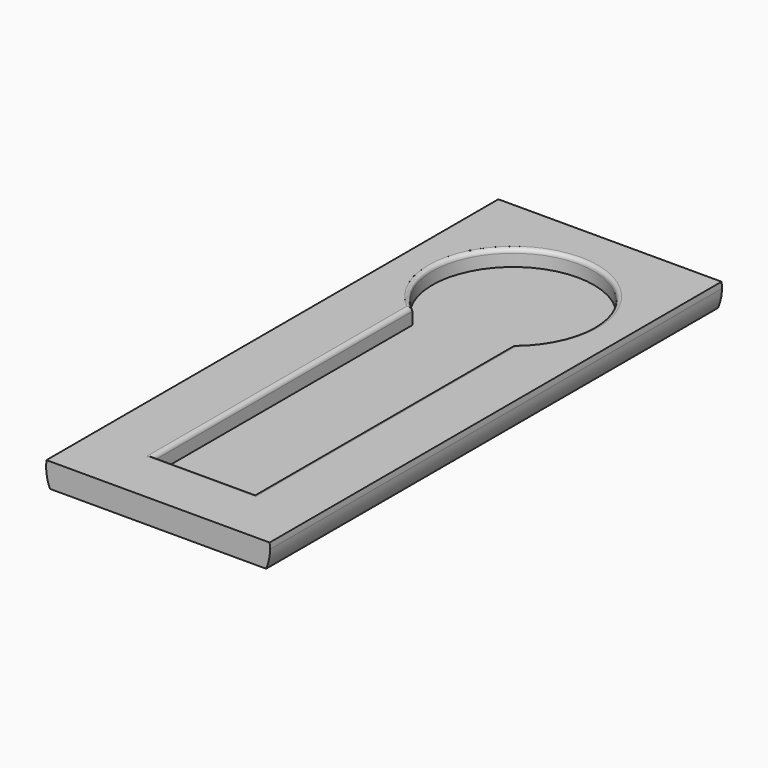
from build123d import *

# Parameters (mm, degrees)
F0_W     = 56
F0_H     = 140
F1_DEPTH = 4
F2_R     = 1
F3_W     = 56
F3_H     = 140
F4_DEPTH = 2
F6_DEPTH = 140


with BuildPart() as f1:
    # F0 (on Top) → F1 (new body)
    with BuildSketch(Plane.XY):
        with Locations((-28, -29.1878056526)):
            Rectangle(F0_W, F0_H)
        with BuildLine():
            ThreePointArc((-40.5, -4.8003006486), (-36.6602540378, 28.8399507247), (-8, 10.8121943474))
            ThreePointArc((-8, 10.8121943474), (-9.9722436227, 2.1519403095), (-15.5, -4.8003006486))
            Line((-15.5, -4.8003006486), (-15.5, -84.8003006486))
            Line((-15.5, -84.8003006486), (-40.5, -84.8003006486))
            Line((-40.5, -84.8003006486), (-40.5, -4.8003006486))
        make_face(mode=Mode.SUBTRACT)
    extrude(amount=F1_DEPTH)

    # F2
    f2_edges = [f1.edges().sort_by_distance(p)[0] for p in [
        (-36.660254, 28.839951, 4),
        (-28, -84.800301, 4),
        (-15.5, -44.800301, 4),
        (-40.5, -44.800301, 4),
    ]]
    fillet(f2_edges, radius=F2_R)

    # F3 (on face) → F4 (join)
    with BuildSketch(Plane(origin=(0, 0, 0), x_dir=(1, 0, 0), z_dir=(0, 0, -1))):
        with Locations((-28, 29.1878056526)):
            Rectangle(F3_W, F3_H)
    extrude(amount=F4_DEPTH)

    # F5 (on face) → F6 (cut)
    with BuildSketch(Plane.XZ.offset(99.1878056526)):
        with BuildLine():
            add(Edge.make_bspline(
                [(4.7167868723, 1.2952466803), (4.7335338345, 1.1579142358), (4.7907207583, 2.8268265821), (4.728835521, 3.7590862588), (4.550137161, 5.5569466999), (4.0878044752, 7.5497423615), (3.1530424566, 9.8821218174), (1.9056722615, 12.054913232), (0.3839834487, 14.0800693463), (-1.3922671666, 15.945478196), (-3.0668308786, 17.3457564736), (-4.5378930711, 18.4083876952), (-5.6986449343, 19.1776471354), (-6.9073685817, 19.9017205855), (-8.5528252486, 20.8065850146), (-10.6587895739, 21.8007860687), (-13.3265373851, 22.8031570282), (-16.0969822522, 23.6248737674), (-18.9575149764, 24.2714809671), (-21.896584676, 24.7375795115), (-24.3854542149, 24.9604081638), (-26.4386175024, 25.0485260723), (-28, 25.0734073731), (-29.5613824976, 25.0485260723), (-31.6145457851, 24.9604081638), (-34.103415324, 24.7375795116), (-37.0424850236, 24.2714809668), (-39.9030177479, 23.6248737687), (-42.6734626148, 22.8031570233), (-45.3412104266, 21.800786086), (-47.4471747498, 20.8065849594), (-49.0926314231, 19.9017207566), (-50.3013550503, 19.1776465923), (-51.4621069901, 18.4083898446), (-52.9331688432, 17.3457467095), (-54.607734032, 15.9455202527), (-56.3839785969, 14.0798990975), (-57.9056901102, 12.0555395434), (-59.1529762673, 9.8797992317), (-60.0880420615, 7.5580792781), (-60.5493701757, 5.5300331488), (-60.7312339418, 3.8432469623), (-60.7830452324, 2.5574920108), (-60.7312339418, 1.2717370592), (-60.5493701757, -0.4150491273), (-60.0880420615, -2.4430952566), (-59.1529762673, -4.7648152102), (-57.9056901102, -6.9405555219), (-56.3839785969, -8.964915076), (-54.607734032, -10.8305362311), (-52.9331688432, -12.230762688), (-51.4621069901, -13.2934058231), (-50.3013550503, -14.0626625708), (-49.0926314231, -14.7867367351), (-47.4471747498, -15.6916009379), (-45.3412104266, -16.6858020645), (-42.6734626148, -17.6881730018), (-39.9030177479, -18.5098897472), (-37.0424850236, -19.1564969452), (-34.103415324, -19.62259549), (-31.6145457851, -19.8454241422), (-29.5613824976, -19.9335420507), (-28, -19.9584233516), (-26.4386175024, -19.9335420507), (-24.3854542149, -19.8454241422), (-21.896584676, -19.6225954899), (-18.9575149764, -19.1564969456), (-16.0969822522, -18.5098897459), (-13.3265373851, -17.6881730067), (-10.6587895739, -16.6858020472), (-8.5528252486, -15.6916009931), (-6.9073685817, -14.786736564), (-5.6986449343, -14.0626631139), (-4.5378930711, -13.2934036737), (-3.0668308786, -12.2307724521), (-1.3922671666, -10.8304941745), (0.3839834487, -8.9650853248), (1.9056722615, -6.9399292104), (3.1530424566, -4.7671377959), (4.0878044752, -2.43475834), (4.550137161, -0.4419626784), (4.728835521, 1.3558977627), (4.7907207583, 2.2881574394), (4.6931123059, 5.1367098772), (4.6931123059, 1.4893885208), (4.7167868723, 1.2952466803)],
                knots=[0, 0, 0, 0, 0.0092598429, 0.0185196858, 0.0291851138, 0.041096994, 0.0541318454, 0.0671905669, 0.0803159225, 0.0935516852, 0.1057732622, 0.1168123825, 0.1264503427, 0.1361412644, 0.1473618238, 0.1599801884, 0.1739081794, 0.1879441959, 0.2020850355, 0.2163241554, 0.2294057764, 0.241151614, 0.2513573464, 0.2615630787, 0.2733089164, 0.2863905374, 0.3006296573, 0.3147704968, 0.3288065133, 0.3427345043, 0.3553528689, 0.3665734284, 0.3762643501, 0.3859023102, 0.3969414305, 0.4091630076, 0.4223987702, 0.4355241259, 0.4485828474, 0.4616176987, 0.4735295789, 0.4841950069, 0.4934548498, 0.5027146927, 0.5133801207, 0.525292001, 0.5383268523, 0.5513855738, 0.5645109294, 0.5777466921, 0.5899682692, 0.6010073895, 0.6106453496, 0.6203362713, 0.6315568307, 0.6441751953, 0.6581031863, 0.6721392029, 0.6862800424, 0.7005191623, 0.7136007833, 0.725346621, 0.7355523533, 0.7457580856, 0.7575039233, 0.7705855443, 0.7848246642, 0.7989655037, 0.8130015203, 0.8269295113, 0.8395478759, 0.8507684353, 0.860459357, 0.8700973171, 0.8811364374, 0.8933580145, 0.9065937771, 0.9197191328, 0.9327778543, 0.9458127056, 0.9577245858, 0.9683900139, 0.9776498568, 0.9869096997, 1, 1, 1, 1], degree=3))
        make_face()
        with BuildLine():
            add(Edge.make_bspline(
                [(-0.25, 2.5574920108), (-0.25, 32.8683811432), (-41.875, 17.712936577), (-83.5, 2.5574920108), (-41.875, -12.5979525555), (-0.25, -27.7533971217), (-0.25, 2.5574920108)],
                knots=[0, 0, 0, 2.0943951024, 2.0943951024, 4.1887902048, 4.1887902048, 6.2831853072, 6.2831853072, 6.2831853072], degree=2, weights=[1, 0.5, 1, 0.5, 1, 0.5, 1]))
        make_face(mode=Mode.SUBTRACT)
    extrude(amount=-F6_DEPTH, mode=Mode.SUBTRACT)


solid = f1.part
